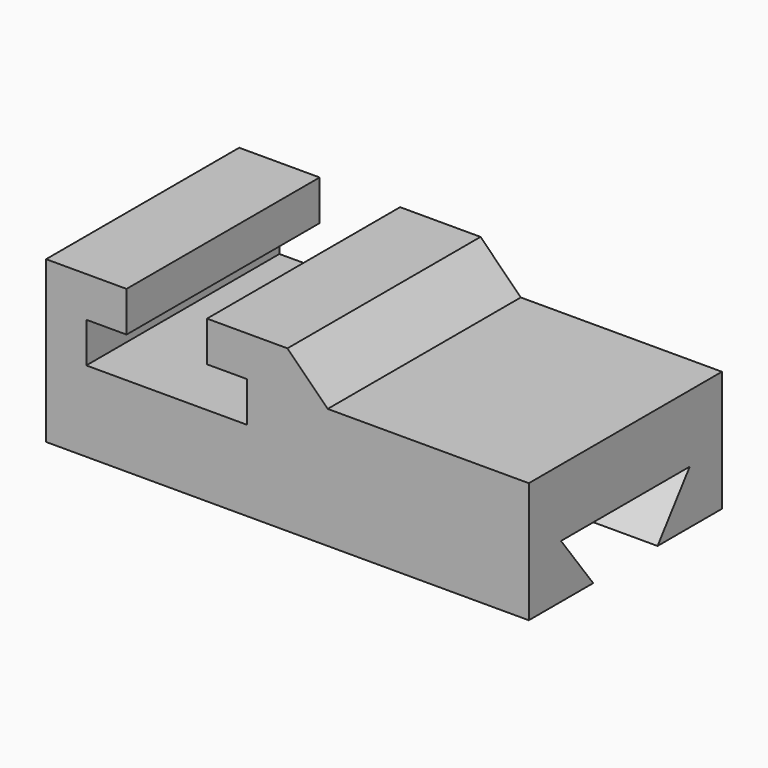
from build123d import *

# Parameters (mm, degrees)
F1_DEPTH = 76.2
F3_DEPTH = 152.4
F5_DEPTH = 152.4
F7_DEPTH = 152.4


with BuildPart() as f1:
    # F0 (on Front) → F1 (new body)
    with BuildSketch(Plane.XZ):
        Polygon((152.4, 38.1), (88.9, 38.1), (76.2, 50.8), (50.8, 50.8), (50.8, 38.1), (63.5, 38.1), (63.5, 25.4), (12.7, 25.4), (12.7, 38.1), (25.4, 38.1), (25.4, 50.8), (0, 50.8), (0, 0), (152.4, 0), align=None)
    extrude(amount=-F1_DEPTH)

    # F2 (on Right) → F3 (join)
    with BuildSketch(Plane.YZ):
        Polygon((12.7, 12.7), (25.4, 0), (50.8, 0), (63.5, 12.7), align=None)
    extrude(amount=F3_DEPTH)

    # F4 (on face) → F5 (join)
    with BuildSketch(Plane.YZ.offset(152.4)):
        Polygon((12.7, 11.3952), (25.4, 0), (50.8, 0), (63.5, 11.3952), align=None)
    extrude(amount=-F5_DEPTH)

    # F6 (on face) → F7 (cut)
    with BuildSketch(Plane.YZ.offset(152.4)):
        Polygon((12.7, 16.891001), (25.4, 0), (50.8, 0), (63.5, 16.891001), align=None)
    extrude(amount=-F7_DEPTH, mode=Mode.SUBTRACT)


solid = f1.part
